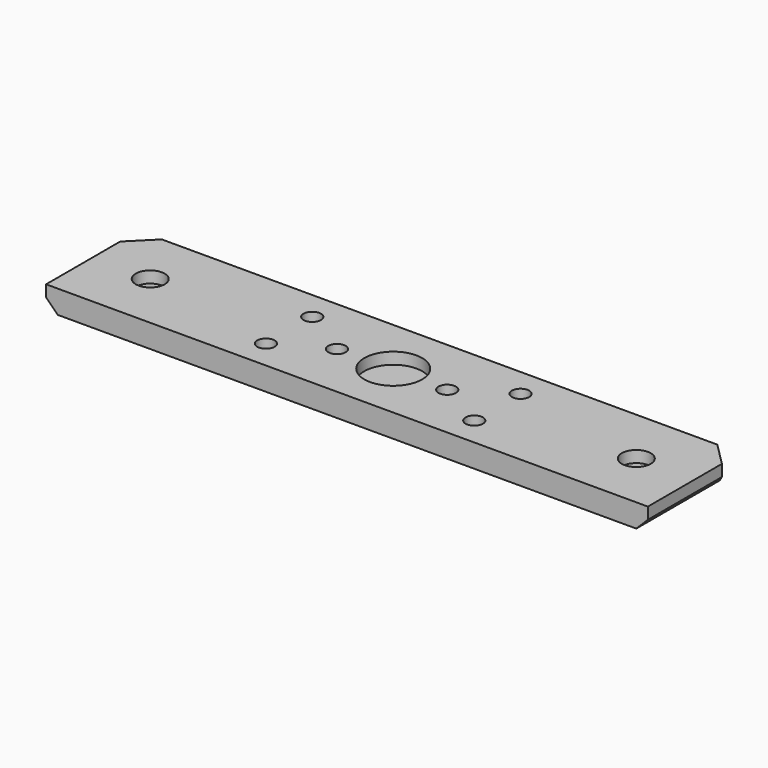
from build123d import *

# Parameters (mm, degrees)
CYLINDER1697_R              = 1.5
CYLINDER1697_DEPTH          = 20
CYLINDER1698_R              = 1.5
CYLINDER1698_DEPTH          = 20
COMPOUND842_ROLL_ANGLE      = 90
COMPOUND842_PLACEMENT_ANGLE = 90
CYLINDER1690_R              = 2.5
CYLINDER1690_DEPTH          = 20
CYLINDER1689_R              = 2.5
CYLINDER1689_DEPTH          = 20
CYLINDER1696_R              = 5
CYLINDER1696_DEPTH          = 5
CYLINDER1687_R              = 5
CYLINDER1687_DEPTH          = 5
CYLINDER1695_R              = 3
CYLINDER1695_DEPTH          = 3
CYLINDER1692_R              = 3
CYLINDER1692_DEPTH          = 3
CYLINDER1693_R              = 3
CYLINDER1693_DEPTH          = 3
CYLINDER1694_R              = 3
CYLINDER1694_DEPTH          = 3
CYLINDER1682_R              = 1.5
CYLINDER1682_DEPTH          = 60
CYLINDER1685_R              = 1.5
CYLINDER1685_DEPTH          = 60
CYLINDER1683_R              = 1.5
CYLINDER1683_DEPTH          = 60
CYLINDER1681_R              = 1.5
CYLINDER1681_DEPTH          = 60
CYLINDER1677_R              = 5
CYLINDER1677_DEPTH          = 5
BOX657_W                    = 104
BOX657_H                    = 20
BOX657_DEPTH                = 4
CHAMFER049_SIZE             = 4
CHAMFER050_SIZE             = 2


with BuildPart() as obj1:
    # Cylinder1697 → Cylinder1697 (new body)
    with BuildSketch(Plane(origin=(15.75, 114, 58.525), x_dir=(-1, 0, 0), z_dir=(0, 1, 0))):
        Circle(CYLINDER1697_R)
    extrude(amount=CYLINDER1697_DEPTH)


with BuildPart() as compound840:
    # Cylinder1698 → Cylinder1698 (new body)
    with BuildSketch(Plane(origin=(15.75, 114, 39.475), x_dir=(-1, 0, 0), z_dir=(0, 1, 0))):
        Circle(CYLINDER1698_R)
    extrude(amount=CYLINDER1698_DEPTH)

    # Compound842: union obj1
    add(obj1.part)


with BuildPart() as compound840_1:
    # Compound842 roll: moved
    add(compound840.part.rotate(Axis((0, 0, 0), (1, 0, 0)), COMPOUND842_ROLL_ANGLE))


with BuildPart() as compound840_2:
    # Compound842 placement: moved
    add(compound840_1.part.moved(Location((-49, 0, -96))).rotate(Axis((-49, 0, -96), (0, 0, 1)), COMPOUND842_PLACEMENT_ANGLE))


with BuildPart() as compound840_3:
    # Compound840 placement: moved
    add(compound840_2.part.moved(Location((0, 74, -72))))


with BuildPart() as obj2:
    # Cylinder1690 → Cylinder1690 (new body)
    with BuildSketch(Plane(origin=(-42, 90, -59), x_dir=(1, 0, 0), z_dir=(0, 0, 1))):
        Circle(CYLINDER1690_R)
    extrude(amount=CYLINDER1690_DEPTH)


with BuildPart() as compound837:
    # Cylinder1689 → Cylinder1689 (new body)
    with BuildSketch(Plane(origin=(42, 90, -59), x_dir=(1, 0, 0), z_dir=(0, 0, 1))):
        Circle(CYLINDER1689_R)
    extrude(amount=CYLINDER1689_DEPTH)

    # Compound837: union obj2
    add(obj2.part)


with BuildPart() as obj3:
    # Cylinder1696 → Cylinder1696 (new body)
    with BuildSketch(Plane(origin=(-42, 90, -59), x_dir=(1, 0, 0), z_dir=(0, 0, 1))):
        Circle(CYLINDER1696_R)
    extrude(amount=CYLINDER1696_DEPTH)


with BuildPart() as compound836:
    # Cylinder1687 → Cylinder1687 (new body)
    with BuildSketch(Plane(origin=(42, 90, -59), x_dir=(1, 0, 0), z_dir=(0, 0, 1))):
        Circle(CYLINDER1687_R)
    extrude(amount=CYLINDER1687_DEPTH)

    # Compound836: union obj3
    add(obj3.part)


with BuildPart() as obj4:
    # Cylinder1695 → Cylinder1695 (new body)
    with BuildSketch(Plane(origin=(18, 85, -57), x_dir=(1, 0, 0), z_dir=(0, 0, 1))):
        Circle(CYLINDER1695_R)
    extrude(amount=CYLINDER1695_DEPTH)


with BuildPart() as obj5:
    # Cylinder1692 → Cylinder1692 (new body)
    with BuildSketch(Plane(origin=(-18, 85, -57), x_dir=(1, 0, 0), z_dir=(0, 0, 1))):
        Circle(CYLINDER1692_R)
    extrude(amount=CYLINDER1692_DEPTH)


with BuildPart() as obj6:
    # Cylinder1693 → Cylinder1693 (new body)
    with BuildSketch(Plane(origin=(-18, 95, -57), x_dir=(1, 0, 0), z_dir=(0, 0, 1))):
        Circle(CYLINDER1693_R)
    extrude(amount=CYLINDER1693_DEPTH)


with BuildPart() as compound834:
    # Cylinder1694 → Cylinder1694 (new body)
    with BuildSketch(Plane(origin=(18, 95, -57), x_dir=(1, 0, 0), z_dir=(0, 0, 1))):
        Circle(CYLINDER1694_R)
    extrude(amount=CYLINDER1694_DEPTH)

    # Compound834: union obj4, obj5, obj6
    add(obj4.part)
    add(obj5.part)
    add(obj6.part)


with BuildPart() as obj7:
    # Cylinder1682 → Cylinder1682 (new body)
    with BuildSketch(Plane(origin=(18, 85, -57), x_dir=(1, 0, 0), z_dir=(0, 0, 1))):
        Circle(CYLINDER1682_R)
    extrude(amount=CYLINDER1682_DEPTH)


with BuildPart() as obj8:
    # Cylinder1685 → Cylinder1685 (new body)
    with BuildSketch(Plane(origin=(-18, 85, -57), x_dir=(1, 0, 0), z_dir=(0, 0, 1))):
        Circle(CYLINDER1685_R)
    extrude(amount=CYLINDER1685_DEPTH)


with BuildPart() as obj9:
    # Cylinder1683 → Cylinder1683 (new body)
    with BuildSketch(Plane(origin=(-18, 95, -57), x_dir=(1, 0, 0), z_dir=(0, 0, 1))):
        Circle(CYLINDER1683_R)
    extrude(amount=CYLINDER1683_DEPTH)


with BuildPart() as compound833:
    # Cylinder1681 → Cylinder1681 (new body)
    with BuildSketch(Plane(origin=(18, 95, -57), x_dir=(1, 0, 0), z_dir=(0, 0, 1))):
        Circle(CYLINDER1681_R)
    extrude(amount=CYLINDER1681_DEPTH)

    # Compound833: union obj7, obj8, obj9
    add(obj7.part)
    add(obj8.part)
    add(obj9.part)


with BuildPart() as obj10:
    # Cylinder1677 → Cylinder1677 (new body)
    with BuildSketch(Plane(origin=(0, 90, -54), x_dir=(1, 0, 0), z_dir=(0, 0, 1))):
        Circle(CYLINDER1677_R)
    extrude(amount=CYLINDER1677_DEPTH)


with BuildPart() as cut344:
    # Box657 → Box657 (new body)
    with BuildSketch(Plane(origin=(-52, 80, -56), x_dir=(1, 0, 0), z_dir=(0, 0, 1))):
        with Locations((52, 10)):
            Rectangle(BOX657_W, BOX657_H)
    extrude(amount=BOX657_DEPTH)

    # Cut337: cut obj10
    add(obj10.part, mode=Mode.SUBTRACT)

    # Cut339: cut Compound833
    add(compound833.part, mode=Mode.SUBTRACT)

    # Cut340: cut Compound834
    add(compound834.part, mode=Mode.SUBTRACT)

    # Cut338: cut Compound836
    add(compound836.part, mode=Mode.SUBTRACT)

    # Cut341: cut Compound837
    add(compound837.part, mode=Mode.SUBTRACT)

    # Chamfer049
    chamfer049_edges = [cut344.edges().sort_by_distance(p)[0] for p in [
        (-52, 100, -54),
        (52, 100, -54),
    ]]
    chamfer(chamfer049_edges, length=CHAMFER049_SIZE)

    # Chamfer050
    chamfer050_edges = [cut344.edges().sort_by_distance(p)[0] for p in [
        (-52, 88, -56),
        (52, 88, -56),
    ]]
    chamfer(chamfer050_edges, length=CHAMFER050_SIZE)

    # Cut344: cut Compound840
    add(compound840_3.part, mode=Mode.SUBTRACT)


solid = cut344.part
